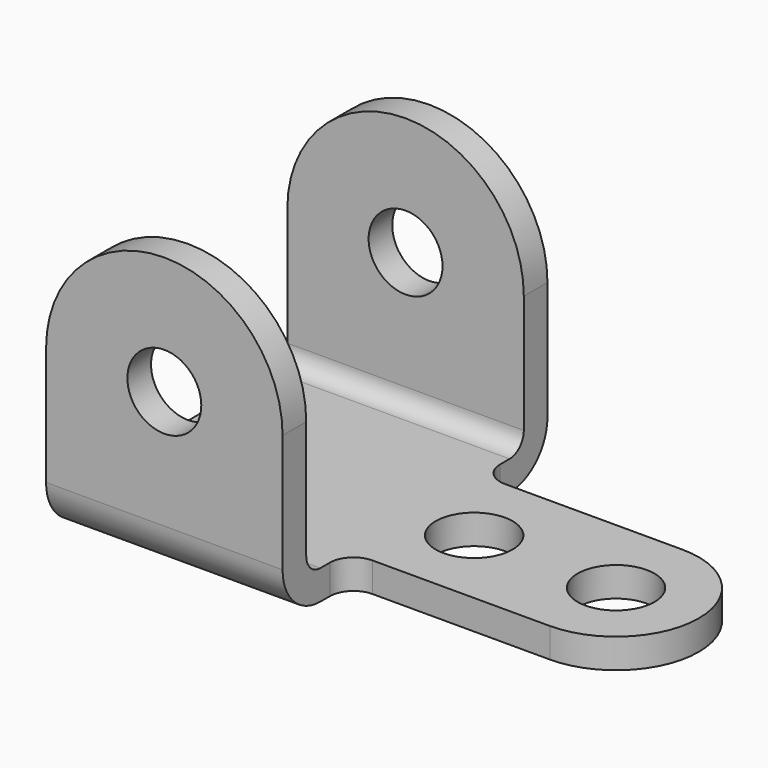
from build123d import *

# Parameters (mm, degrees)
F0_R     = 10.3251
F2_DEPTH = 7.9375
F1_R     = 9.92251
F3_DEPTH = 88.9
F4_W     = 73.025
F4_H     = 76.2
F5_DEPTH = 63.501
F6_R     = 12.7
F7_R     = 4.7625


with BuildPart() as f2:
    # F0 (on Top) → F2 (new body)
    with BuildSketch(Plane.XY):
        with BuildLine():
            Line((0, 88.9), (0, 0))
            Line((0, 0), (63.5, 0))
            Line((63.5, 0), (63.5, 15.875))
            ThreePointArc((63.5, 15.875), (65.359872, 20.365128), (69.85, 22.225))
            Line((69.85, 22.225), (117.475, 22.225))
            ThreePointArc((117.475, 22.225), (139.7, 44.45), (117.475, 66.675))
            Line((117.475, 66.675), (69.85, 66.675))
            ThreePointArc((69.85, 66.675), (65.359872, 68.534872), (63.5, 73.025))
            Line((63.5, 73.025), (63.5, 88.9))
            Line((63.5, 88.9), (0, 88.9))
        make_face()
        with Locations((79.375, 44.45)):
            Circle(F0_R, mode=Mode.SUBTRACT)
        with Locations((117.475, 44.45)):
            Circle(F0_R, mode=Mode.SUBTRACT)
    extrude(amount=F2_DEPTH)

    # F1 (on Front) → F3 (join)
    with BuildSketch(Plane.XZ):
        with BuildLine():
            Line((0, 44.45), (0, 0))
            Line((0, 0), (63.5, 0))
            Line((63.5, 0), (63.5, 44.45))
            ThreePointArc((63.5, 44.45), (31.75, 76.2), (0, 44.45))
        make_face()
        with Locations((31.75, 44.45)):
            Circle(F1_R, mode=Mode.SUBTRACT)
    extrude(amount=-F3_DEPTH)

    # F4 (on face) → F5 (cut, through all)
    with BuildSketch(Plane.YZ.offset(63.5)):
        with Locations((44.45, 46.0375)):
            Rectangle(F4_W, F4_H)
    extrude(amount=-F5_DEPTH, mode=Mode.SUBTRACT)

    # F6
    f6_edges = [f2.edges().sort_by_distance(p)[0] for p in [
        (31.75, 0, 0),
        (31.75, 88.9, 0),
    ]]
    fillet(f6_edges, radius=F6_R)

    # F7
    f7_edges = [f2.edges().sort_by_distance(p)[0] for p in [
        (31.75, 7.9375, 7.9375),
        (31.75, 80.9625, 7.9375),
    ]]
    fillet(f7_edges, radius=F7_R)


solid = f2.part
